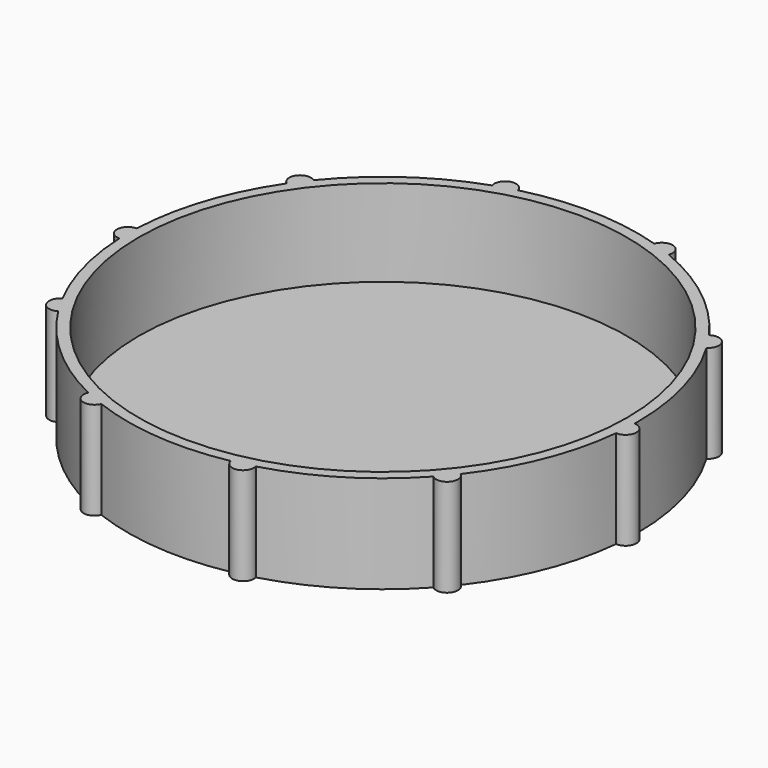
from build123d import *

# Parameters (mm, degrees)
F0_R     = 45
F1_DEPTH = 2
F2_DEPTH = 18


with BuildPart() as f1:
    # F0 (on Top) → F1 (new body)
    with BuildSketch(Plane.XY):
        Circle(F0_R)
    extrude(amount=F1_DEPTH)

    # F0 (on Top) → F2 (join)
    with BuildSketch(Plane.XY):
        with BuildLine():
            ThreePointArc((46.994266, -0.734168), (46.998566, -0.367095), (47, 0))
            ThreePointArc((47, 0), (45.302118, 12.518711), (40.331144, 24.132941))
            ThreePointArc((40.331144, 24.132941), (39.267927, 25.826922), (38.133605, 27.474136))
            ThreePointArc((38.133605, 27.474136), (29.151068, 36.867536), (17.939352, 43.441681))
            ThreePointArc((17.939352, 43.441681), (16.074947, 44.165553), (14.181433, 44.809452))
            ThreePointArc((14.181433, 44.809452), (1.366982, 46.980117), (-11.552002, 45.558218))
            ThreePointArc((-11.552002, 45.558218), (-13.479752, 45.025507), (-15.383093, 44.411265))
            ThreePointArc((-15.383093, 44.411265), (-26.958093, 38.500146), (-36.47161, 29.644926))
            ThreePointArc((-36.47161, 29.644926), (-37.69979, 28.066454), (-38.859704, 26.43716))
            ThreePointArc((-38.859704, 26.43716), (-44.614404, 14.783604), (-46.957447, 1.999547))
            ThreePointArc((-46.957447, 1.999547), (-47, 0), (-46.957447, -1.999547))
            ThreePointArc((-46.957447, -1.999547), (-45.398514, -12.164495), (-41.666115, -21.747065))
            ThreePointArc((-41.666115, -21.747065), (-40.703194, -23.5), (-39.666568, -25.210382))
            ThreePointArc((-39.666568, -25.210382), (-31.245406, -35.110178), (-20.434911, -42.325104))
            ThreePointArc((-20.434911, -42.325104), (-18.615749, -43.156157), (-16.762878, -43.909064))
            ThreePointArc((-16.762878, -43.909064), (-4.09632, -46.821151), (8.883483, -46.15283))
            ThreePointArc((8.883483, -46.15283), (10.838946, -45.733109), (12.774782, -45.230575))
            ThreePointArc((12.774782, -45.230575), (24.673899, -40.002484), (34.686207, -31.715407))
            ThreePointArc((34.686207, -31.715407), (36.004089, -30.211018), (37.256775, -28.651923))
            ThreePointArc((37.256775, -28.651923), (43.679334, -17.352689), (46.761739, -4.726497))
            ThreePointArc((46.761739, -4.726497), (46.920483, -2.732807), (46.994266, -0.734168))
        make_face()
        Circle(F0_R, mode=Mode.SUBTRACT)
        with BuildLine():
            ThreePointArc((-46.957447, -1.999547), (-47, 0), (-46.957447, 1.999547))
            ThreePointArc((-46.957447, 1.999547), (-49, 0), (-46.957447, -1.999547))
        make_face()
        with BuildLine():
            ThreePointArc((-41.666115, -21.747065), (-42.435245, -24.5), (-39.666568, -25.210382))
            ThreePointArc((-39.666568, -25.210382), (-40.703194, -23.5), (-41.666115, -21.747065))
        make_face()
        with BuildLine():
            ThreePointArc((-20.434911, -42.325104), (-19.407909, -44.992589), (-16.762878, -43.909064))
            ThreePointArc((-16.762878, -43.909064), (-18.615749, -43.156157), (-20.434911, -42.325104))
        make_face()
        with BuildLine():
            ThreePointArc((8.883483, -46.15283), (11.300178, -47.679199), (12.774782, -45.230575))
            ThreePointArc((12.774782, -45.230575), (10.838946, -45.733109), (8.883483, -46.15283))
        make_face()
        with BuildLine():
            ThreePointArc((34.686207, -31.715407), (37.536178, -31.496593), (37.256775, -28.651923))
            ThreePointArc((37.256775, -28.651923), (36.004089, -30.211018), (34.686207, -31.715407))
        make_face()
        with BuildLine():
            ThreePointArc((46.761739, -4.726497), (48.9171, -2.849097), (46.994266, -0.734168))
            ThreePointArc((46.994266, -0.734168), (46.920483, -2.732807), (46.761739, -4.726497))
        make_face()
        with BuildLine():
            ThreePointArc((38.133605, 27.474136), (39.267927, 25.826922), (40.331144, 24.132941))
            ThreePointArc((40.331144, 24.132941), (40.938903, 26.92594), (38.133605, 27.474136))
        make_face()
        with BuildLine():
            ThreePointArc((14.181433, 44.809452), (16.074947, 44.165553), (17.939352, 43.441681))
            ThreePointArc((17.939352, 43.441681), (16.758987, 46.044938), (14.181433, 44.809452))
        make_face()
        with BuildLine():
            ThreePointArc((-15.383093, 44.411265), (-13.479752, 45.025507), (-11.552002, 45.558218))
            ThreePointArc((-11.552002, 45.558218), (-14.053358, 46.941486), (-15.383093, 44.411265))
        make_face()
        with BuildLine():
            ThreePointArc((-38.859704, 26.43716), (-37.69979, 28.066454), (-36.47161, 29.644926))
            ThreePointArc((-36.47161, 29.644926), (-39.304036, 29.260771), (-38.859704, 26.43716))
        make_face()
    extrude(amount=F2_DEPTH)


solid = f1.part
